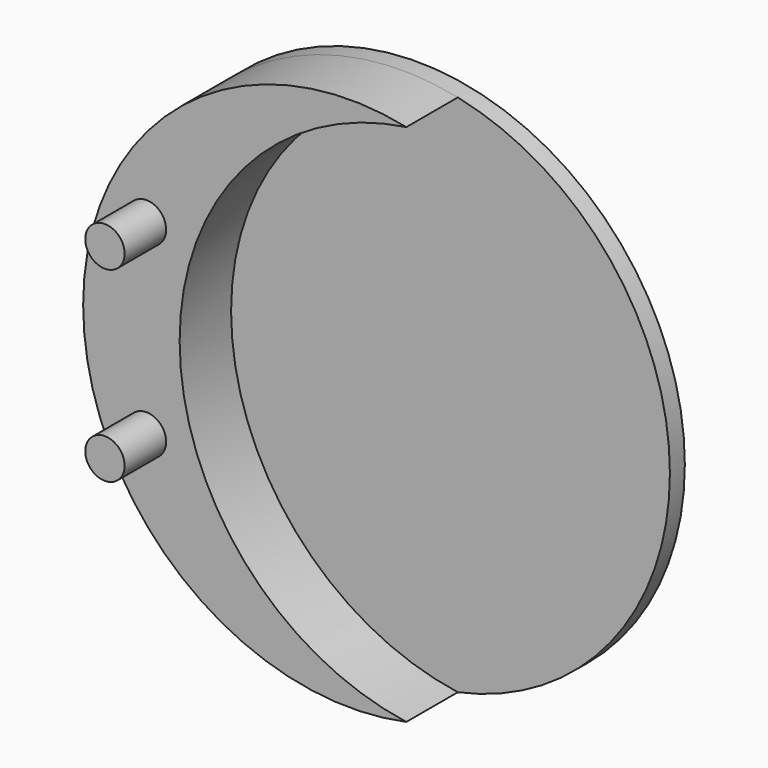
from build123d import *

# Parameters (mm, degrees)
F0_R     = 12.9
F1_DEPTH = 0.9
F3_DEPTH = 3.1
F4_R     = 0.95
F5_DEPTH = 2.5


with BuildPart() as f1:
    # F0 (on Front) → F1 (new body)
    with BuildSketch(Plane.XZ):
        Circle(F0_R)
    extrude(amount=F1_DEPTH)

    # F2 (on face) → F3 (join)
    with BuildSketch(Plane.XZ.offset(0.9)):
        with BuildLine():
            ThreePointArc((2.6775, -12.619073), (-8.25, 0), (2.6775, 12.619073))
            ThreePointArc((2.6775, 12.619073), (-12.9, 0), (2.6775, -12.619073))
        make_face()
    extrude(amount=F3_DEPTH)

    # F4 (on face) → F5 (join)
    with BuildSketch(Plane.XZ.offset(4)):
        with Locations((-9.85, 4.5)):
            Circle(F4_R)
        with Locations((-9.85, -4.5)):
            Circle(F4_R)
    extrude(amount=F5_DEPTH)


solid = f1.part
